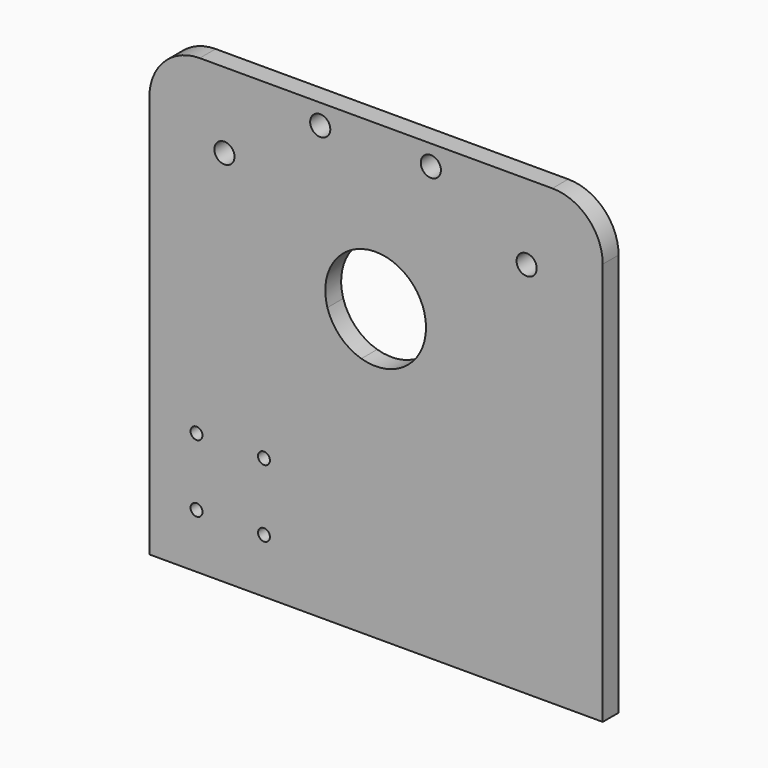
from build123d import *

# Parameters (mm, degrees)
F0_W     = 228.6
F0_H     = 228.6
F0_R     = 3
F0_R_2   = 5.08
F1_DEPTH = 10
F2_R     = 25.4


with BuildPart() as f1:
    # F0 (on Front) → F1 (new body)
    with BuildSketch(Plane.XZ):
        Rectangle(F0_W, F0_H)
        with Locations((-90.537816, -86.794242)):
            Circle(F0_R, mode=Mode.SUBTRACT)
        with Locations((-56.537816, -86.794242)):
            Circle(F0_R, mode=Mode.SUBTRACT)
        with Locations((-90.537816, -52.794242)):
            Circle(F0_R, mode=Mode.SUBTRACT)
        with Locations((-56.537816, -52.794242)):
            Circle(F0_R, mode=Mode.SUBTRACT)
        with BuildLine():
            ThreePointArc((-7.422443, 7.396804), (-18.143127, 13.760824), (-24.544206, 24.459424))
            ThreePointArc((-24.544206, 24.459424), (-3.899198, 56.883584), (25.186284, 31.752383))
            ThreePointArc((25.186284, 31.752383), (14.985928, 11.402179), (-7.422443, 7.396804))
        make_face(mode=Mode.SUBTRACT)
        with BuildLine():
            ThreePointArc((-72.865814, 72.614118), (-81.159114, 78.139971), (-71.384126, 76.2))
            ThreePointArc((-71.384126, 76.2), (-71.769138, 74.260029), (-72.865814, 72.614118))
        make_face(mode=Mode.SUBTRACT)
        with Locations((-28.156495, 104.09138)):
            Circle(F0_R_2, mode=Mode.SUBTRACT)
        with Locations((27.624831, 104.092209)):
            Circle(F0_R_2, mode=Mode.SUBTRACT)
        with Locations((75.93329, 76.202263)):
            Circle(F0_R_2, mode=Mode.SUBTRACT)
    extrude(amount=F1_DEPTH)

    # F2
    f2_edges = [f1.edges().sort_by_distance(p)[0] for p in [
        (114.3, -5, 114.3),
        (-114.3, -5, 114.3),
    ]]
    fillet(f2_edges, radius=F2_R)


solid = f1.part
